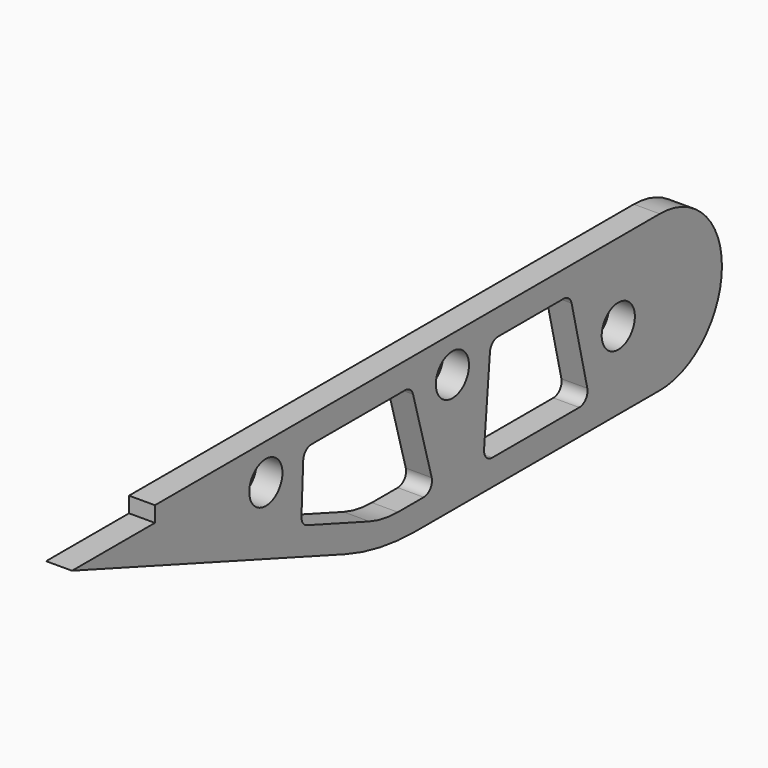
from build123d import *

# Parameters (mm, degrees)
F0_R     = 4
F1_DEPTH = 5
F3_DEPTH = 25


with BuildPart() as f1:
    # F0 (on Right) → F1 (new body)
    with BuildSketch(Plane.YZ):
        with BuildLine():
            Line((50, 15), (-71.757568, 15))
            Line((-71.757568, 15), (-71.757568, 12))
            Line((-71.757568, 12), (-91.757568, 12))
            Line((-91.757568, 12), (-25.860336, -11.984631))
            ThreePointArc((-25.860336, -11.984631), (-17.441737, -14.240388), (-8.759328, -15))
            Line((-8.759328, -15), (50, -15))
            ThreePointArc((50, -15), (65, 0), (50, 15))
        make_face()
        with Locations((-45, 8)):
            Circle(F0_R, mode=Mode.SUBTRACT)
        with Locations((40, 0)):
            Circle(F0_R, mode=Mode.SUBTRACT)
        with Locations((0, 8)):
            Circle(F0_R, mode=Mode.SUBTRACT)
    extrude(amount=F1_DEPTH)

    # F2 (on face) → F3 (cut)
    with BuildSketch(Plane.YZ.offset(5)):
        with BuildLine():
            Line((-11.427469, 10), (-33.988824, 10))
            ThreePointArc((-33.988824, 10), (-35.37082, 9.445713), (-35.986794, 8.090086))
            Line((-35.986794, 8.090086), (-36.411633, -1.332144))
            ThreePointArc((-36.411633, -1.332144), (-36.077394, -2.532185), (-35.097703, -3.301615))
            Line((-35.097703, -3.301615), (-20.007906, -8.793852))
            ThreePointArc((-20.007906, -8.793852), (-16.640466, -9.696155), (-13.167503, -10))
            Line((-13.167503, -10), (-6.923765, -10))
            ThreePointArc((-6.923765, -10), (-5.32943, -9.207516), (-4.99858, -7.458096))
            Line((-4.99858, -7.458096), (-9.502283, 8.541904))
            ThreePointArc((-9.502283, 8.541904), (-10.219953, 9.594335), (-11.427469, 10))
        make_face()
        with BuildLine():
            Line((26.798899, 10), (11.043371, 10))
            ThreePointArc((11.043371, 10), (9.693216, 9.475493), (9.051226, 8.17708))
            Line((9.051226, 8.17708), (7.629003, -7.82292))
            ThreePointArc((7.629003, -7.82292), (8.145656, -9.350156), (9.621149, -10))
            Line((9.621149, -10), (30.591494, -10))
            ThreePointArc((30.591494, -10), (32.160344, -9.240447), (32.537569, -7.538708))
            Line((32.537569, -7.538708), (28.744975, 8.461292))
            ThreePointArc((28.744975, 8.461292), (28.039346, 9.568851), (26.798899, 10))
        make_face()
    extrude(amount=-F3_DEPTH, mode=Mode.SUBTRACT)


solid = f1.part
